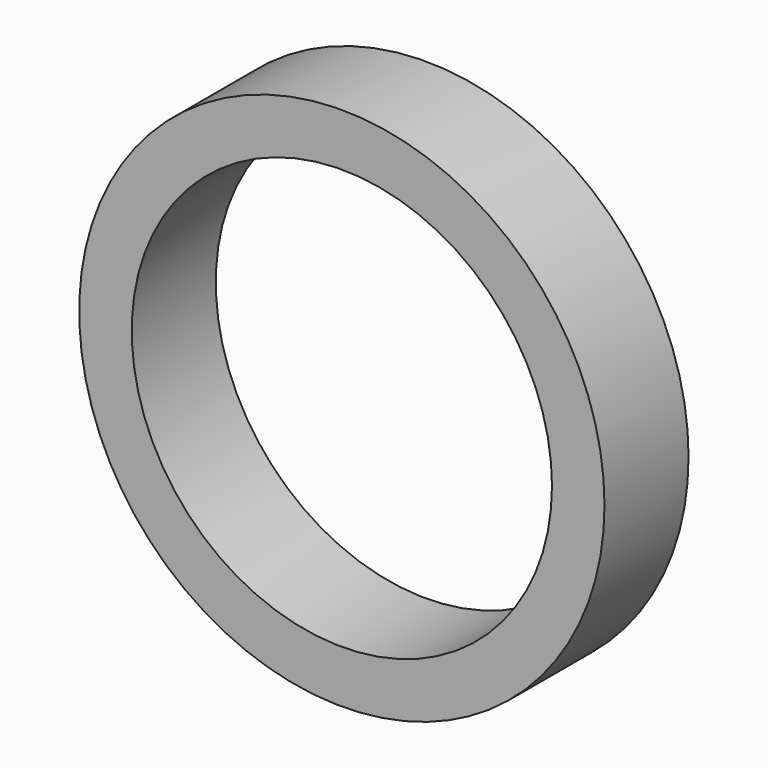
from build123d import *

# Parameters (mm, degrees)
F0_R = 63.5
F2_R = 63.5
F4_T = -12.7


with BuildPart() as f3:
    # F0 (on Front) → F3 section 0
    with BuildSketch(Plane.XZ):
        Circle(F0_R)
    # F2 (on offset) → F3 section 1
    with BuildSketch(Plane.XZ.offset(25.4)):
        Circle(F2_R)
    loft()

    # F4
    f4_openings = [f3.faces().sort_by_distance(p)[0] for p in [
        (0, -25.4, 0),
        (0, 0, 0),
    ]]
    offset(amount=F4_T, openings=f4_openings)


solid = f3.part
